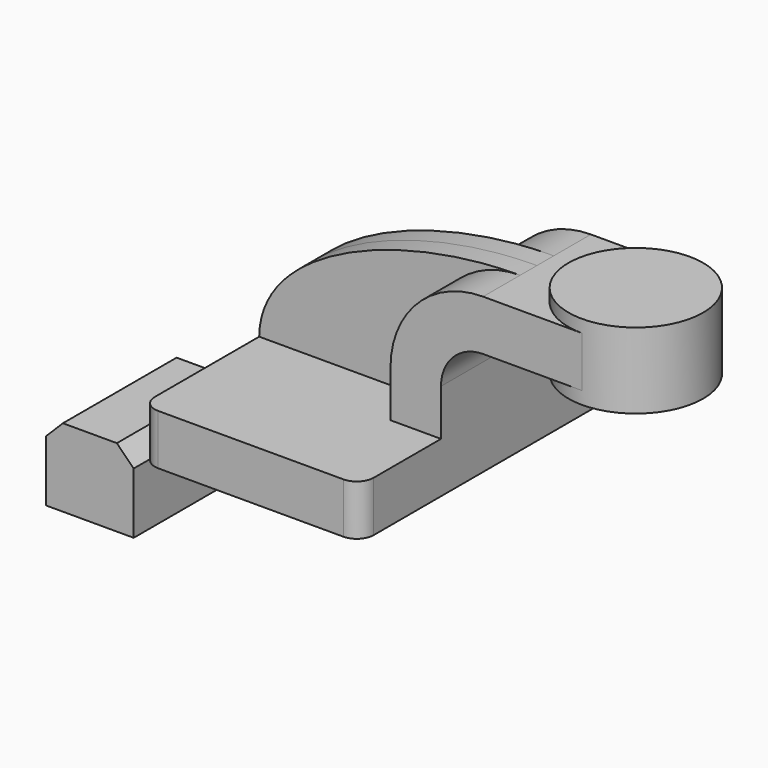
from build123d import *

# Parameters (mm, degrees)
F1_DEPTH = 63.5
F0_W     = 25.4
F0_H     = 19.05
F2_DEPTH = 25.4
F3_DEPTH = 7.9375
F5_R     = 6.35
F6_W     = 33.044279
F6_H     = 29.372699
F7_DEPTH = 53.594
F8_SIZE  = 6.35


with BuildPart() as f1:
    # F0 (on Front) → F1 (new body, symmetric)
    with BuildSketch(Plane.XZ):
        Polygon((-41.275, -9.525), (41.275, -9.525), (41.275, 9.525), (22.225, 9.525), (-41.275, 9.525), align=None)
    extrude(amount=F1_DEPTH, both=True)

    # F0 (on Front) → F2 (join, symmetric)
    with BuildSketch(Plane.XZ):
        with BuildLine():
            Line((22.225, 9.525), (41.275, 9.525))
            Line((41.275, 9.525), (41.275, 27.0002))
            ThreePointArc((41.275, 27.0002), (45.92468, 38.22552), (57.15, 42.8752))
            Line((57.15, 42.8752), (69.03259, 42.8752))
            Line((69.03259, 42.8752), (69.03259, 61.9252))
            Line((69.03259, 61.9252), (57.15, 61.9252))
            ThreePointArc((57.15, 61.9252), (32.454296, 51.695904), (22.225, 27.0002))
            Line((22.225, 27.0002), (22.225, 9.525))
        make_face()
        with Locations((81.73259, 52.4002)):
            Rectangle(F0_W, F0_H)
    extrude(amount=F2_DEPTH, both=True)

    # F0 (on Front) → F3 (join, symmetric)
    with BuildSketch(Plane.XZ):
        with BuildLine():
            add(Edge.make_bspline(
                [(-41.275, 9.525), (-40.913433, 41.622374), (12.055526, 61.959676), (57.15, 61.9252)],
                knots=[0, 0, 0, 0, 111.504536, 111.504536, 111.504536, 111.504536], degree=3))
            Line((-41.275, 9.525), (22.225, 9.525))
            Line((22.225, 9.525), (22.225, 27.0002))
            ThreePointArc((22.225, 27.0002), (32.454296, 51.695904), (57.15, 61.9252))
        make_face()
    extrude(amount=F3_DEPTH, both=True)

    # F0 (on Front) → F4 (revolve)
    with BuildSketch(Plane.XZ):
        Polygon((94.43259, 66.675), (94.43259, 61.9252), (94.43259, 42.8752), (94.43259, 38.1), (119.83259, 38.1), (119.83259, 66.675), align=None)
    revolve(axis=Axis((94.43259, 0, 52.4002), (0, 0, -1)))

    # F5
    f5_edges = [f1.edges().sort_by_distance(p)[0] for p in [
        (-41.275, -63.5, 0),
        (41.275, -63.5, 0),
        (41.275, 63.5, 0),
        (-41.275, 63.5, 0),
    ]]
    fillet(f5_edges, radius=F5_R)


with BuildPart() as f7:
    # F6 (on Front) → F7 (new body)
    with BuildSketch(Plane.XZ):
        with Locations((-68.596534, -27.536902)):
            Rectangle(F6_W, F6_H)
    extrude(amount=F7_DEPTH)

    # F8
    f8_edges = [f7.edges().sort_by_distance(p)[0] for p in [
        (-85.118674, -26.797, -12.850553),
        (-52.074395, -26.797, -12.850553),
    ]]
    chamfer(f8_edges, length=F8_SIZE)


solid = Compound([f1.part, f7.part])
